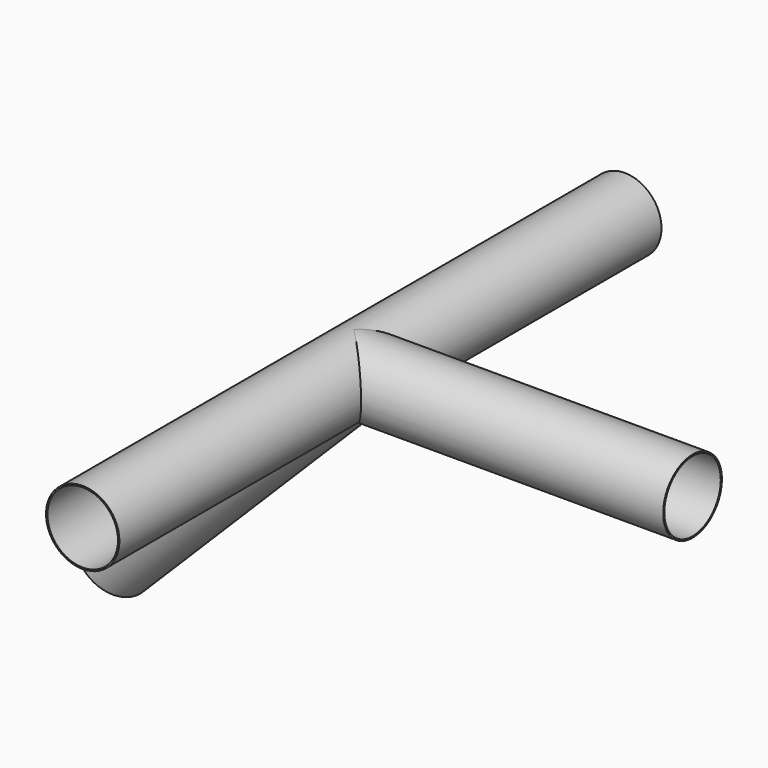
from build123d import *

# Parameters (mm, degrees)
F0_R          = 16.51
F1_DEPTH      = 152.4
F1_DEPTH_BACK = 152.4
F2_R          = 16.51
F3_DEPTH      = 152.4
F5_R          = 16.51
F6_DEPTH      = 152.4
F7_R          = 15.875
F8_DEPTH      = 304.801
F9_R          = 15.875
F10_DEPTH     = 152.41
F11_R         = 15.875
F12_DEPTH     = 152.41


with BuildPart() as f1:
    # F0 (on Front) → F1 (new body, two sides)
    with BuildSketch(Plane.XZ) as f1_sk:
        Circle(F0_R)
    extrude(amount=F1_DEPTH)
    extrude(f1_sk.sketch, amount=-F1_DEPTH_BACK)

    # F2 (on Right) → F3 (join)
    with BuildSketch(Plane.YZ):
        Circle(F2_R)
    extrude(amount=F3_DEPTH)

    # F5 (on face) → F6 (join)
    with BuildSketch(Plane(origin=(0, 0, 0), x_dir=(0, 1, 0), z_dir=(0.7071067812, 0, 0.7071067812))):
        Circle(F5_R)
    extrude(amount=-F6_DEPTH)

    # F7 (on face) → F8 (cut, through all)
    with BuildSketch(Plane.XZ.offset(152.4)):
        Circle(F7_R)
    extrude(amount=-F8_DEPTH, mode=Mode.SUBTRACT)

    # F9 (on face) → F10 (cut, up to face)
    with BuildSketch(Plane.YZ.offset(152.4)):
        Circle(F9_R)
    extrude(amount=-F10_DEPTH, mode=Mode.SUBTRACT)

    # F11 (on face) → F12 (cut, up to face)
    with BuildSketch(Plane(origin=(-107.7630734528, 0, -107.7630734528), x_dir=(0, -1, 0), z_dir=(-0.7071067812, 0, -0.7071067812))):
        Circle(F11_R)
    extrude(amount=-F12_DEPTH, mode=Mode.SUBTRACT)


solid = f1.part
